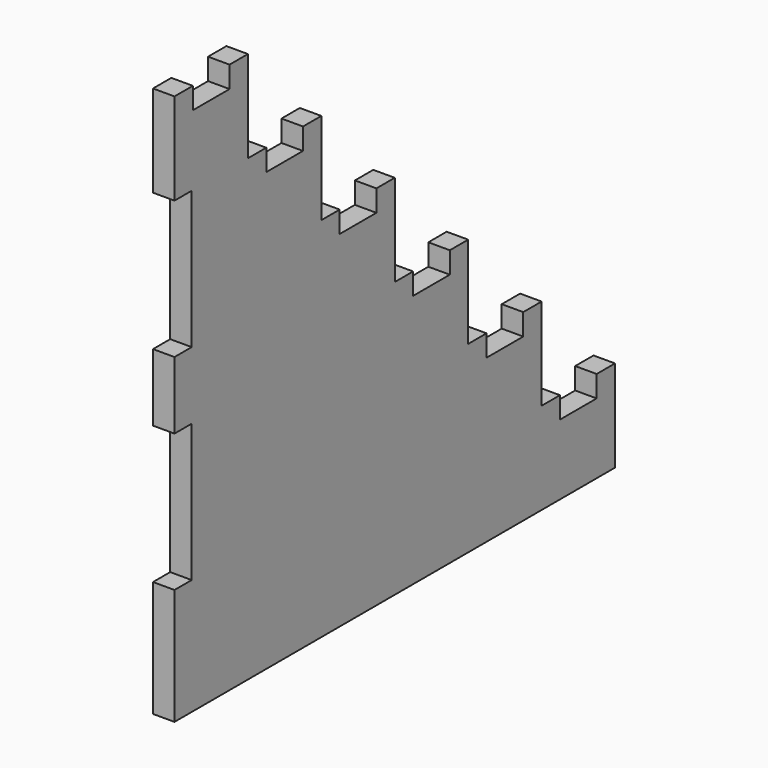
from build123d import *

# Parameters (mm, degrees)
F1_DEPTH = 5.953125


with BuildPart() as f1:
    # F0 (on Right) → F1 (new body)
    with BuildSketch(Plane.YZ):
        Polygon((-69.85, 72.489666), (-76.2, 72.489666), (-76.2, 47.089666), (-70.246875, 47.089666), (-70.246875, 8.989666), (-76.2, 8.989666), (-76.2, -9.663459), (-70.246875, -9.663459), (-70.246875, -47.763459), (-76.2, -47.763459), (-76.2, -79.910334), (76.2, -79.910334), (76.2, -54.510334), (69.85, -54.510334), (69.85, -60.463459), (57.15, -60.463459), (57.15, -54.510334), (50.8, -54.510334), (50.8, -29.110334), (44.45, -29.110334), (44.45, -35.063459), (31.75, -35.063459), (31.75, -29.110334), (25.4, -29.110334), (25.4, -3.710334), (19.05, -3.710334), (19.05, -9.663459), (6.35, -9.663459), (6.35, -3.710334), (0, -3.710334), (0, 21.689666), (-6.35, 21.689666), (-6.35, 15.736541), (-19.05, 15.736541), (-19.05, 21.689666), (-25.4, 21.689666), (-25.4, 47.089666), (-31.75, 47.089666), (-31.75, 41.136541), (-44.45, 41.136541), (-44.45, 47.089666), (-50.8, 47.089666), (-50.8, 72.489666), (-57.15, 72.489666), (-57.15, 66.536541), (-69.85, 66.536541), align=None)
    extrude(amount=F1_DEPTH)


solid = f1.part
